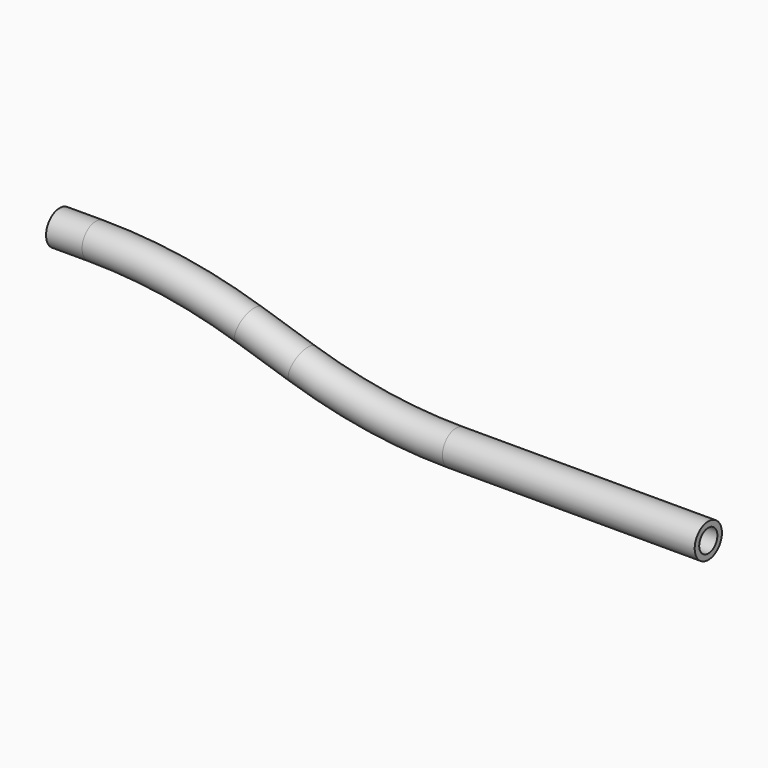
from build123d import *

# Parameters (mm, degrees)
F0_R   = 3
F0_R_2 = 2


with BuildPart() as f2:
    # F2: sweep along a path in F1
    with BuildLine(Plane.XZ) as f2_path:
        Line((0, 0), (-44.45, 0))
        ThreePointArc((-44.45, 0), (-58.1253747721, 1.0581300014), (-71.4752079395, 4.2073312746))
        Line((-71.4752079395, 4.2073312746), (-80.9247920605, 7.2226687254))
        ThreePointArc((-80.9247920605, 7.2226687254), (-94.2746252279, 10.3718699986), (-107.95, 11.43))
        Line((-107.95, 11.43), (-114.3, 11.43))
    # F0 (on Right) → F2 (sweep)
    with BuildSketch(Plane.YZ):
        Circle(F0_R)
        Circle(F0_R_2, mode=Mode.SUBTRACT)
    sweep(path=f2_path.line)


solid = f2.part
